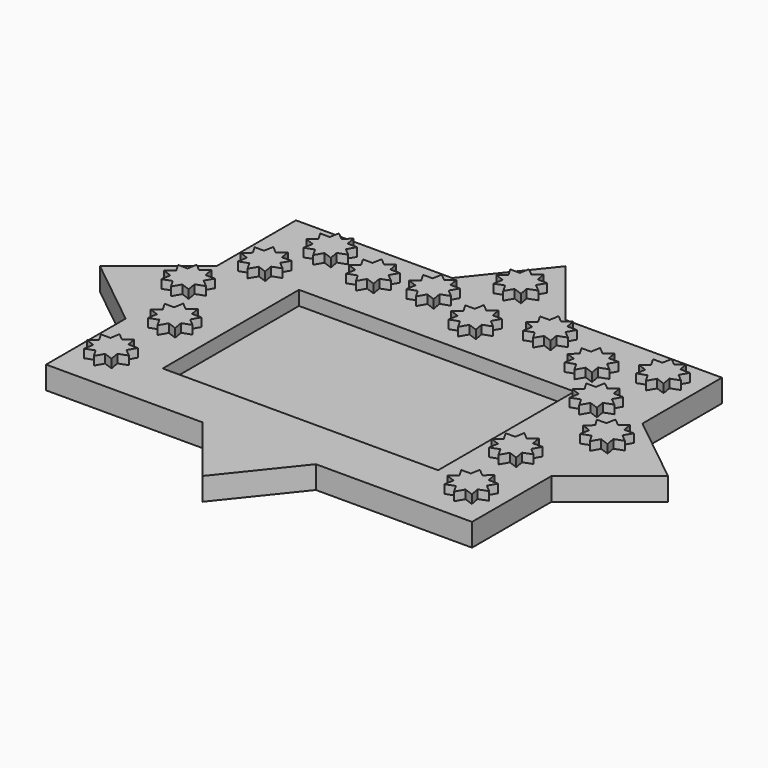
from build123d import *

# Parameters (mm, degrees)
F1_DEPTH = 4
F4_DEPTH = 3
F5_W     = 97
F5_H     = 60
F6_DEPTH = 5


with BuildPart() as f1:
    # F0 (on Top) → F1 (new body, symmetric)
    with BuildSketch(Plane.XY):
        Polygon((75, 20), (75, 55), (20, 55), (0, 80), (-20, 55), (-75, 55), (-75, 20), (-100, 0), (-75, -20), (-75, -55), (-20, -55), (0, -80), (20, -55), (75, -55), (75, -20), (100, 0), align=None)
    extrude(amount=F1_DEPTH, both=True)

    # F2 (on face) → F4 (join)
    with BuildSketch(Plane.XY.offset(4)):
        Polygon((70.819427, 42.185143), (68.254276, 44.337561), (69.92856, 47.237505), (66.579993, 47.237505), (65.99852, 50.535199), (63.433369, 48.382782), (60.868218, 50.535199), (60.286746, 47.237505), (56.938179, 47.237505), (58.612462, 44.337561), (56.047311, 42.185143), (59.193935, 41.039866), (58.612462, 37.742171), (61.759086, 38.887449), (63.433369, 35.987505), (65.107653, 38.887449), (68.254276, 37.742171), (67.672804, 41.039866), align=None)
        Polygon((51.337917, 35.047552), (48.772766, 37.19997), (50.44705, 40.099914), (47.098483, 40.099914), (46.51701, 43.397608), (43.951859, 41.245191), (41.386708, 43.397608), (40.805236, 40.099914), (37.456669, 40.099914), (39.130952, 37.19997), (36.565801, 35.047552), (39.712425, 33.902275), (39.130952, 30.60458), (42.277576, 31.749858), (43.951859, 28.849914), (45.626143, 31.749858), (48.772766, 30.60458), (48.191294, 33.902275), align=None)
        Polygon((30.620125, 42.691371), (28.054974, 44.843788), (29.729258, 47.743732), (26.380691, 47.743732), (25.799218, 51.041427), (23.234067, 48.889009), (20.668916, 51.041427), (20.087443, 47.743732), (16.738877, 47.743732), (18.41316, 44.843788), (15.848009, 42.691371), (18.994633, 41.546093), (18.41316, 38.248399), (21.559784, 39.393676), (23.234067, 36.493732), (24.908351, 39.393676), (28.054974, 38.248399), (27.473502, 41.546093), align=None)
        Polygon((6.78205, 59.437873), (4.216899, 61.590291), (5.891183, 64.490235), (2.542616, 64.490235), (1.961143, 67.787929), (-0.604008, 65.635512), (-3.169159, 67.787929), (-3.750632, 64.490235), (-7.099199, 64.490235), (-5.424915, 61.590291), (-7.990066, 59.437873), (-4.843443, 58.292596), (-5.424915, 54.994901), (-2.278291, 56.140179), (-0.604008, 53.240235), (1.070275, 56.140179), (4.216899, 54.994901), (3.635427, 58.292596), align=None)
        Polygon((10.442116, 35.012434), (7.876965, 37.164851), (9.551248, 40.064795), (6.202681, 40.064795), (5.621209, 43.36249), (3.056057, 41.210073), (0.490906, 43.36249), (-0.090566, 40.064795), (-3.439133, 40.064795), (-1.76485, 37.164851), (-4.330001, 35.012434), (-1.183377, 33.867157), (-1.76485, 30.569462), (1.381774, 31.714739), (3.056057, 28.814795), (4.730341, 31.714739), (7.876965, 30.569462), (7.295492, 33.867157), align=None)
        Polygon((-9.932582, 41.929643), (-12.497733, 44.08206), (-10.82345, 46.982004), (-14.172016, 46.982004), (-14.753489, 50.279699), (-17.31864, 48.127281), (-19.883791, 50.279699), (-20.465264, 46.982004), (-23.813831, 46.982004), (-22.139547, 44.08206), (-24.704698, 41.929643), (-21.558075, 40.784365), (-22.139547, 37.486671), (-18.992924, 38.631948), (-17.31864, 35.732004), (-15.644357, 38.631948), (-12.497733, 37.486671), (-13.079206, 40.784365), align=None)
        Polygon((-28.583076, 38.781662), (-31.148227, 40.93408), (-29.473944, 43.834024), (-32.822511, 43.834024), (-33.403983, 47.131718), (-35.969134, 44.979301), (-38.534286, 47.131718), (-39.115758, 43.834024), (-42.464325, 43.834024), (-40.790042, 40.93408), (-43.355193, 38.781662), (-40.208569, 37.636385), (-40.790042, 34.33869), (-37.643418, 35.483968), (-35.969134, 32.584024), (-34.294851, 35.483968), (-31.148227, 34.33869), (-31.7297, 37.636385), align=None)
        Polygon((-47.381501, 43.4845), (-49.946652, 45.636917), (-48.272368, 48.536861), (-51.620935, 48.536861), (-52.202408, 51.834556), (-54.767559, 49.682138), (-57.33271, 51.834556), (-57.914182, 48.536861), (-61.262749, 48.536861), (-59.588466, 45.636917), (-62.153617, 43.4845), (-59.006993, 42.339222), (-59.588466, 39.041528), (-56.441842, 40.186805), (-54.767559, 37.286861), (-53.093275, 40.186805), (-49.946652, 39.041528), (-50.528124, 42.339222), align=None)
        Polygon((-56.401565, 25.847648), (-58.966716, 28.000065), (-57.292432, 30.900009), (-60.640999, 30.900009), (-61.222472, 34.197704), (-63.787623, 32.045287), (-66.352774, 34.197704), (-66.934246, 30.900009), (-70.282813, 30.900009), (-68.60853, 28.000065), (-71.173681, 25.847648), (-68.027057, 24.702371), (-68.60853, 21.404676), (-65.461906, 22.549953), (-63.787623, 19.650009), (-62.113339, 22.549953), (-58.966716, 21.404676), (-59.548188, 24.702371), align=None)
        Polygon((-66.235385, 4.442972), (-68.800536, 6.595389), (-67.126252, 9.495333), (-70.474819, 9.495333), (-71.056292, 12.793028), (-73.621443, 10.640611), (-76.186594, 12.793028), (-76.768067, 9.495333), (-80.116633, 9.495333), (-78.44235, 6.595389), (-81.007501, 4.442972), (-77.860877, 3.297695), (-78.44235, 0), (-75.295726, 1.145277), (-73.621443, -1.754667), (-71.94716, 1.145277), (-68.800536, 0), (-69.382008, 3.297695), align=None)
        Polygon((-54.685837, -15.921711), (-57.250989, -13.769294), (-55.576705, -10.86935), (-58.925272, -10.86935), (-59.506745, -7.571655), (-62.071896, -9.724072), (-64.637047, -7.571655), (-65.218519, -10.86935), (-68.567086, -10.86935), (-66.892803, -13.769294), (-69.457954, -15.921711), (-66.31133, -17.066988), (-66.892803, -20.364683), (-63.746179, -19.219406), (-62.071896, -22.11935), (-60.397612, -19.219406), (-57.250989, -20.364683), (-57.832461, -17.066988), align=None)
        Polygon((65.508691, 19.48725), (62.94354, 21.639668), (64.617823, 24.539612), (61.269256, 24.539612), (60.687784, 27.837306), (58.122633, 25.684889), (55.557482, 27.837306), (54.976009, 24.539612), (51.627442, 24.539612), (53.301726, 21.639668), (50.736574, 19.48725), (53.883198, 18.341973), (53.301726, 15.044278), (56.448349, 16.189556), (58.122633, 13.289612), (59.796916, 16.189556), (62.94354, 15.044278), (62.362067, 18.341973), align=None)
        Polygon((81.27153, 4.442972), (78.706379, 6.595389), (80.380663, 9.495333), (77.032096, 9.495333), (76.450623, 12.793028), (73.885472, 10.640611), (71.320321, 12.793028), (70.738848, 9.495333), (67.390282, 9.495333), (69.064565, 6.595389), (66.499414, 4.442972), (69.646038, 3.297695), (69.064565, 0), (72.211189, 1.145277), (73.885472, -1.754667), (75.559756, 1.145277), (78.706379, 0), (78.124907, 3.297695), align=None)
        Polygon((66.717387, -17.541138), (64.152236, -15.38872), (65.82652, -12.488776), (62.477953, -12.488776), (61.89648, -9.191082), (59.331329, -11.343499), (56.766178, -9.191082), (56.184706, -12.488776), (52.836139, -12.488776), (54.510422, -15.38872), (51.945271, -17.541138), (55.091895, -18.686415), (54.510422, -21.98411), (57.657046, -20.838832), (59.331329, -23.738776), (61.005613, -20.838832), (64.152236, -21.98411), (63.570764, -18.686415), align=None)
        Polygon((-56.954331, -41.096854), (-59.519482, -38.944437), (-57.845198, -36.044493), (-61.193765, -36.044493), (-61.775238, -32.746798), (-64.340389, -34.899215), (-66.90554, -32.746798), (-67.487012, -36.044493), (-70.835579, -36.044493), (-69.161296, -38.944437), (-71.726447, -41.096854), (-68.579823, -42.242131), (-69.161296, -45.539826), (-66.014672, -44.394549), (-64.340389, -47.294493), (-62.666105, -44.394549), (-59.519482, -45.539826), (-60.100954, -42.242131), align=None)
        Polygon((70.857735, -42.264128), (68.292583, -40.111711), (69.966867, -37.211767), (66.6183, -37.211767), (66.036827, -33.914072), (63.471676, -36.066489), (60.906525, -33.914072), (60.325053, -37.211767), (56.976486, -37.211767), (58.650769, -40.111711), (56.085618, -42.264128), (59.232242, -43.409405), (58.650769, -46.7071), (61.797393, -45.561823), (63.471676, -48.461767), (65.14596, -45.561823), (68.292583, -46.7071), (67.711111, -43.409405), align=None)
    extrude(amount=F4_DEPTH)

    # F5 (on face) → F6 (cut)
    with BuildSketch(Plane.XY.offset(4)):
        with Locations((0, -6.795877)):
            Rectangle(F5_W, F5_H)
    extrude(amount=-F6_DEPTH, mode=Mode.SUBTRACT)


solid = f1.part
